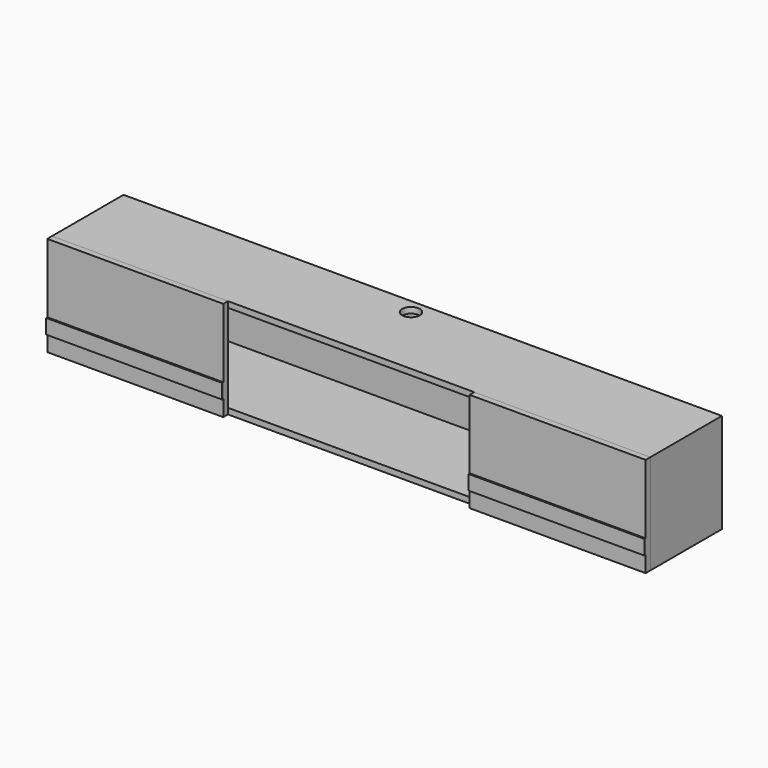
from build123d import *

# Parameters (mm, degrees)
F0_W      = 2040
F0_H      = 340
F0_W_2    = 2000
F0_H_2    = 300
F1_DEPTH  = 300
F2_W      = 2040
F2_H      = 340
F3_DEPTH  = 5
F4_W      = 600
F4_H      = 340
F5_DEPTH  = 20
F7_W      = 600
F7_H      = 50
F8_DEPTH  = 5
F10_R     = 30
F11_DEPTH = 50


with BuildPart() as f1:
    # F0 (on Front) → F1 (new body)
    with BuildSketch(Plane.XZ):
        with Locations((0, 150)):
            Rectangle(F0_W, F0_H)
        with Locations((0, 150)):
            Rectangle(F0_W_2, F0_H_2, mode=Mode.SUBTRACT)
    extrude(amount=F1_DEPTH)

    # F2 (on face) → F3 (join)
    with BuildSketch(Plane(origin=(0, 0, 0), x_dir=(-1, 0, 0), z_dir=(0, 1, 0))):
        with Locations((0, 150)):
            Rectangle(F2_W, F2_H)
    extrude(amount=F3_DEPTH)

    # F10 (on face) → F11 (cut)
    with BuildSketch(Plane.XY.offset(320)):
        with Locations((0, -45)):
            Circle(F10_R)
    extrude(amount=-F11_DEPTH, mode=Mode.SUBTRACT)


with BuildPart() as f5:
    # F4 (on face) → F5 (new body)
    with BuildSketch(Plane.XZ.offset(300)):
        with Locations((-720, 150)):
            Rectangle(F4_W, F4_H)
    extrude(amount=F5_DEPTH)


with BuildPart() as f6_1:
    # F6: instance of F5
    add(f5.part.mirror(Plane.YZ))


with BuildPart() as f8:
    # F7 (on face) → F8 (new body)
    with BuildSketch(Plane.XZ.offset(320)):
        with Locations((-720, 59.747098)):
            Rectangle(F7_W, F7_H)
    extrude(amount=F8_DEPTH)


with BuildPart() as f9_1:
    # F9: instance of F8
    add(f8.part.mirror(Plane.YZ))


solid = Compound([f1.part, f5.part, f6_1.part, f8.part, f9_1.part])
